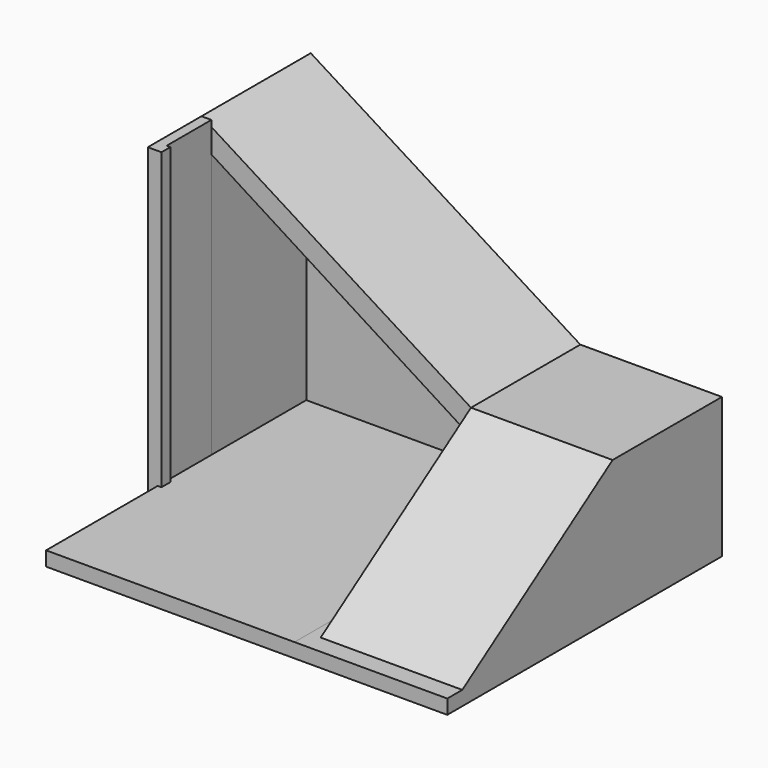
from build123d import *

# Parameters (mm, degrees)
F1_DEPTH  = 1100
F3_DEPTH  = 955
F4_W      = 450
F4_H      = 2490
F5_DEPTH  = 80
F6_W      = 90
F6_H      = 2490
F7_DEPTH  = 110
F8_W      = 90.1878520287
F8_H      = 864.9774521589
F9_DEPTH  = 955
F10_DEPTH = 940
F11_DEPTH = 1290
F13_DEPTH = 940
F14_DEPTH = 373.64776
F16_DEPTH = 200


with BuildPart() as f1:
    # F0 (on Front) → F1 (new body)
    with BuildSketch(Plane.XZ):
        Polygon((2170, -1360), (0, 0), (0, -2490), (2170, -2490), align=None)
    extrude(amount=F1_DEPTH)

    # F2 (on face) → F3 (cut)
    with BuildSketch(Plane.XZ.offset(1100)):
        Polygon((2079.8121479713, -1509.2901259661), (79.8121479713, -244.2901259661), (79.8121479713, -2374.2901259661), (2079.8121479713, -2374.2901259661), align=None)
    extrude(amount=-F3_DEPTH, mode=Mode.SUBTRACT)

    # F4 (on face) → F5 (join)
    with BuildSketch(Plane(origin=(0, 0, 0), x_dir=(0, -1, 0), z_dir=(-1, 0, 0))):
        with Locations((1325, -1245)):
            Rectangle(F4_W, F4_H)
    extrude(amount=-F5_DEPTH)

    # F6 (on face) → F7 (join)
    with BuildSketch(Plane(origin=(0, 0, 0), x_dir=(0, -1, 0), z_dir=(-1, 0, 0))):
        with Locations((1595, -1245)):
            Rectangle(F6_W, F6_H)
    extrude(amount=-F7_DEPTH)

    # F8 (on face) → F9 (cut)
    with BuildSketch(Plane.XZ.offset(1100)):
        with Locations((2124.9060739856, -1941.7788520455)):
            Rectangle(F8_W, F8_H)
    extrude(amount=-F9_DEPTH, mode=Mode.SUBTRACT)

    # F10 (add): a face of the model
    f10_faces = [f1.faces().sort_by_distance(p)[0] for p in [
        (2170, -15.769908053, -1925),
    ]]
    extrude(f10_faces, amount=F10_DEPTH)

    # F11 (add): a face of the model
    f11_faces = [f1.faces().sort_by_distance(p)[0] for p in [
        (1595.0662428142, -1100, -2432.1412294023),
    ]]
    extrude(f11_faces, amount=F11_DEPTH)

    # F14 (add): a face of the model
    f14_faces = [f1.faces().sort_by_distance(p)[0] for p in [
        (1595.0662428142, -2390, -2432.1412294023),
    ]]


with BuildPart() as f13:
    # F12 (on face) → F13 (new body)
    with BuildSketch(Plane.YZ.offset(3110)):
        Polygon((-2390, -2374.267578125), (-1100, -1509.2901259661), (-1100, -1360), (-2619.9676820473, -2379.1765682024), align=None)
    extrude(amount=-F13_DEPTH)


with BuildPart() as f1_1:
    add(f1.part)

    add(f13.part)  # F14 merges F13
    extrude(f14_faces, amount=F14_DEPTH)

    # F15 (on face) → F16 (join)
    with BuildSketch(Plane.YZ.offset(3110)):
        Polygon((0, -2490), (0, -1360), (-1100, -1360), (-2612.6465695904, -2374.267578125), (-2763.64776, -2374.267578125), (-2763.64776, -2490), align=None)
    extrude(amount=F16_DEPTH)


solid = f1_1.part
